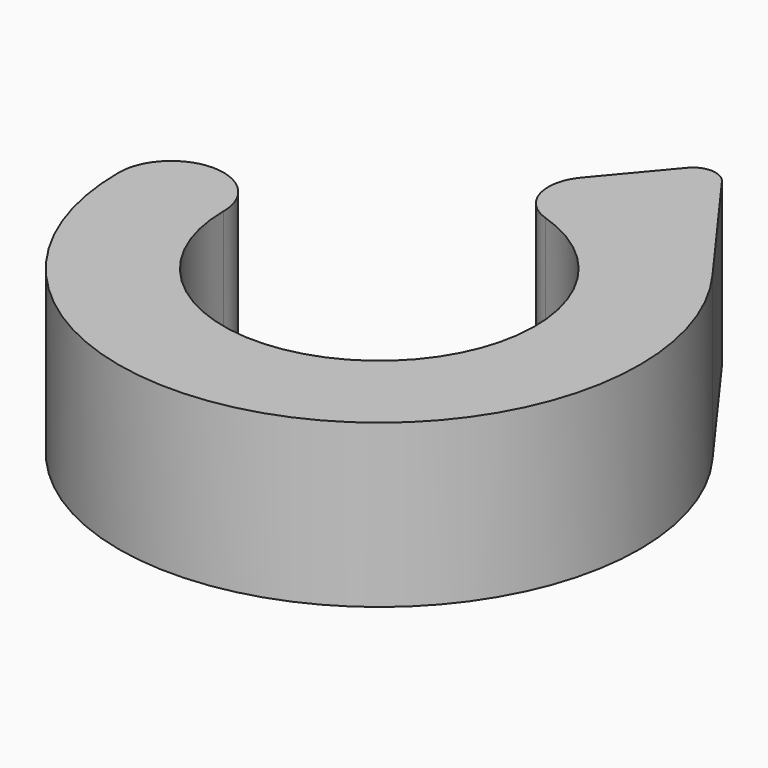
from build123d import *

# Parameters (mm, degrees)
F1_DEPTH = 7.28025


with BuildPart() as f1:
    # F0 (on Top) → F1 (new body)
    with BuildSketch(Plane.XY):
        with BuildLine():
            ThreePointArc((-2.3495, 0), (12.985089, -11.099056), (18.737294, 6.935655))
            Line((18.737294, 6.935655), (14.574847, 12.664773))
            ThreePointArc((14.574847, 12.664773), (13.788343, 13.082964), (12.974584, 12.720656))
            Line((12.974584, 12.720656), (10.545117, 9.82533))
            ThreePointArc((10.545117, 9.82533), (10.158151, 7.994524), (11.462635, 6.652914))
            ThreePointArc((11.462635, 6.652914), (13.453068, -5.641598), (2.3495, 0))
            ThreePointArc((2.3495, 0), (0, 2.3495), (-2.3495, 0))
        make_face()
    extrude(amount=F1_DEPTH)


solid = f1.part
